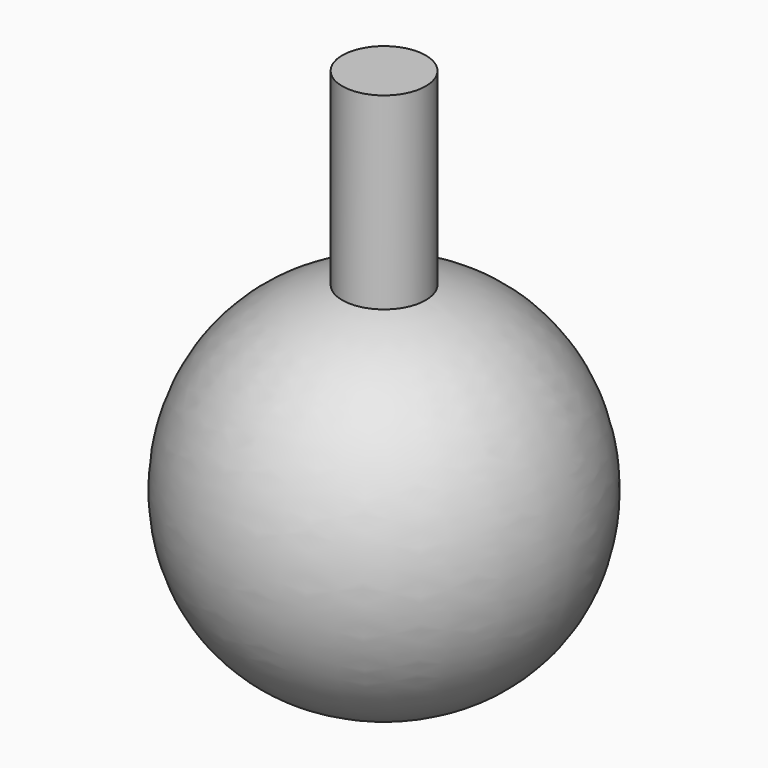
from build123d import *


with BuildPart() as f1:
    # F0 (on Front) → F1 (revolve)
    with BuildSketch(Plane.XZ):
        with BuildLine():
            add(Edge.make_bspline(
                [(0, 22.952178), (1.907304, 22.884663), (3.700939, 22.65231), (5.380401, 22.275409)],
                knots=[0, 0, 0, 0, 2.858144, 2.858144, 2.858144, 2.858144], degree=3))
            Line((0, 22.952178), (0, -23.873953))
            add(Edge.make_bspline(
                [(5.380401, 22.275409), (31.216252, 16.477387), (30.033248, -23.527748), (0, -23.873953)],
                knots=[2.858144, 2.858144, 2.858144, 2.858144, 46.826132, 46.826132, 46.826132, 46.826132], degree=3))
        make_face()
    revolve(axis=Axis((0, 0, -0.460887), (0, 0, -1)))

    # F0 (on Front) → F2 (revolve)
    with BuildSketch(Plane.XZ):
        with BuildLine():
            Line((0, 46.5496), (0, 22.952178))
            add(Edge.make_bspline(
                [(0, 22.952178), (1.907304, 22.884663), (3.700939, 22.65231), (5.380401, 22.275409)],
                knots=[0, 0, 0, 0, 2.858144, 2.858144, 2.858144, 2.858144], degree=3))
            Line((5.380401, 22.275409), (5.380401, 46.5496))
            Line((5.380401, 46.5496), (0, 46.5496))
        make_face()
    revolve(axis=Axis((0, 0, 34.750889), (0, 0, 1)))


solid = f1.part
